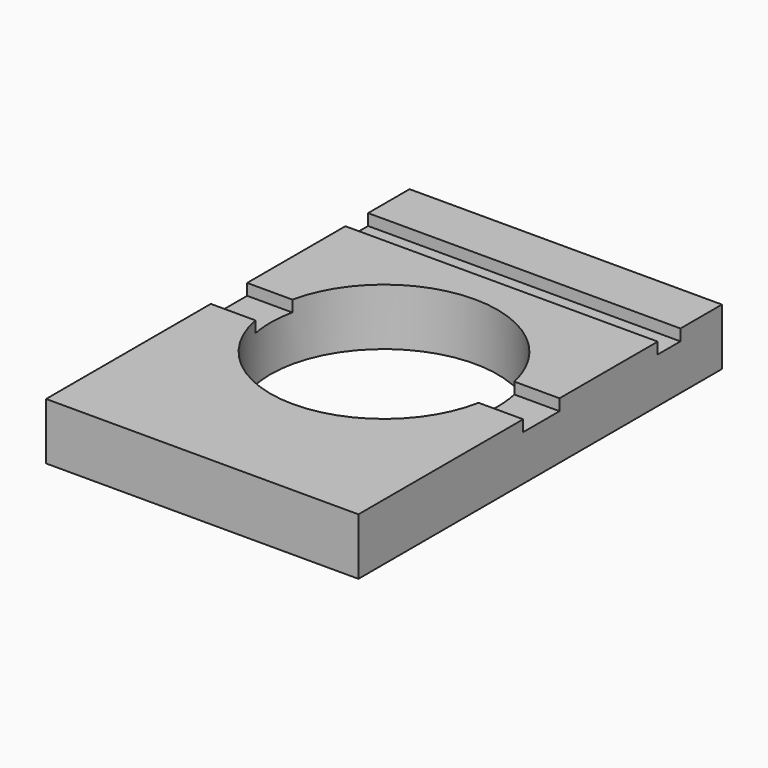
from build123d import *

# Parameters (mm, degrees)
F0_W     = 69.85
F0_H     = 101.6
F0_R     = 25.4
F1_DEPTH = 12.7
F2_W     = 69.85
F2_H     = 6.35
F3_DEPTH = 2.54


with BuildPart() as f1:
    # F0 (on Top) → F1 (new body)
    with BuildSketch(Plane.XY):
        Rectangle(F0_W, F0_H)
        Circle(F0_R, mode=Mode.SUBTRACT)
    extrude(amount=F1_DEPTH)

    # F2 (on face) → F3 (cut)
    with BuildSketch(Plane.XY.offset(12.7)):
        with BuildLine():
            Line((-24.8187093164, 5.4029314144), (-34.925, 5.4029314144))
            Line((-34.925, 5.4029314144), (-34.925, 0.3229314144))
            Line((-34.925, 0.3229314144), (-25.3989142655, 0.2348491713))
            ThreePointArc((-25.3989142655, 0.2348491713), (-25.2414282098, 2.8337787368), (-24.8187093164, 5.4029314144))
        make_face()
        with BuildLine():
            Line((-25.3989142655, 0.2348491713), (-34.925, 0.3229314144))
            Line((-34.925, 0.3229314144), (-34.925, -4.7570685856))
            Line((-34.925, -4.7570685856), (-24.9505570774, -4.7570685856))
            ThreePointArc((-24.9505570774, -4.7570685856), (-25.2981644957, -2.2721956671), (-25.3989142655, 0.2348491713))
        make_face()
        with BuildLine():
            Line((34.925, -0.3229314144), (34.925, 5.4029314144))
            Line((34.925, 5.4029314144), (24.8187093164, 5.4029314144))
            ThreePointArc((24.8187093164, 5.4029314144), (25.2542592114, 2.7170557009), (25.4, 0))
            ThreePointArc((25.4, 0), (25.3997285649, -0.1174258405), (25.3989142655, -0.2348491713))
            Line((25.3989142655, -0.2348491713), (34.925, -0.3229314144))
        make_face()
        with BuildLine():
            Line((34.925, -4.7570685856), (34.925, -0.3229314144))
            Line((34.925, -0.3229314144), (25.3989142655, -0.2348491713))
            ThreePointArc((25.3989142655, -0.2348491713), (25.2760743241, -2.5060061383), (24.9505570774, -4.7570685856))
            Line((24.9505570774, -4.7570685856), (34.925, -4.7570685856))
        make_face()
        with Locations((0, 36.0342099249)):
            Rectangle(F2_W, F2_H)
    extrude(amount=-F3_DEPTH, mode=Mode.SUBTRACT)


solid = f1.part
